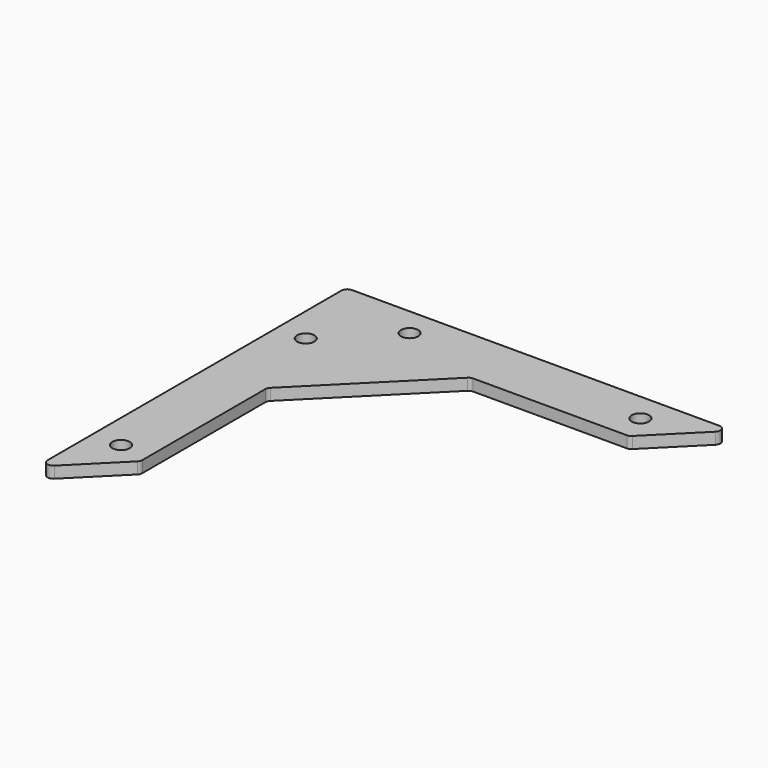
from build123d import *

# Parameters (mm, degrees)
SKETCH_R  = 3
PAD_DEPTH = 4


with BuildPart() as part:
    # Sketch → Pad (new body)
    with BuildSketch(Plane.XY):
        with BuildLine():
            Line((2, 0), (129.313708, 0))
            ThreePointArc((130.727922, -3.414214), (131.161468, -1.234633), (129.313708, 0))
            Line((114.727922, -19.414214), (130.727922, -3.414214))
            ThreePointArc((113.313708, -20), (114.079075, -19.847759), (114.727922, -19.414214))
            Line((113.313708, -20), (60, -20))
            ThreePointArc((60, -20), (59.234633, -20.152241), (58.585786, -20.585786))
            Line((58.585786, -20.585786), (20.585786, -58.585786))
            ThreePointArc((20.585786, -58.585786), (20.152241, -59.234633), (20, -60))
            Line((20, -60), (20, -113.313708))
            ThreePointArc((19.414214, -114.727922), (19.847759, -114.079075), (20, -113.313708))
            Line((3.414214, -130.727922), (19.414214, -114.727922))
            ThreePointArc((0, -129.313708), (1.234633, -131.161468), (3.414214, -130.727922))
            Line((0, -129.313708), (0, -2))
            ThreePointArc((2, 0), (0.585786, -0.585786), (0, -2))
        make_face()
        with Locations((10, -110)):
            Circle(SKETCH_R, mode=Mode.SUBTRACT)
        with Locations((110, -10)):
            Circle(SKETCH_R, mode=Mode.SUBTRACT)
        with Locations((10, -30)):
            Circle(SKETCH_R, mode=Mode.SUBTRACT)
        with Locations((30, -10)):
            Circle(SKETCH_R, mode=Mode.SUBTRACT)
    extrude(amount=PAD_DEPTH)


solid = part.part
